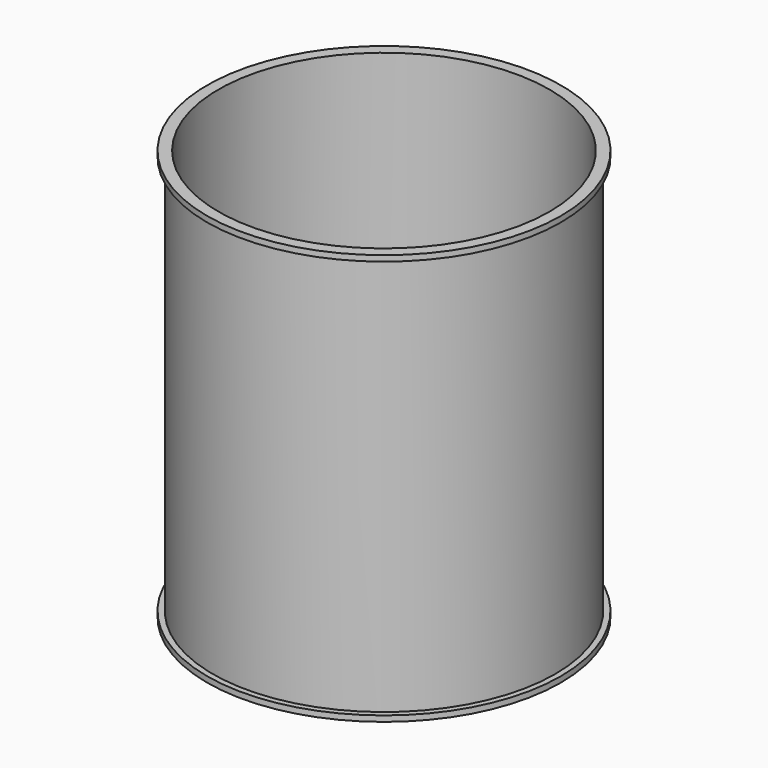
from build123d import *

# Parameters (mm, degrees)
F0_R     = 368.3
F1_DEPTH = 25.4
F0_R_2   = 381
F2_DEPTH = 914.4
F3_R     = 393.7
F3_R_2   = 381
F4_DEPTH = 12.7
F5_R     = 393.7
F5_R_2   = 381
F6_DEPTH = 12.7


with BuildPart() as f1:
    # F0 (on Top) → F1 (new body)
    with BuildSketch(Plane.XY):
        Circle(F0_R)
    extrude(amount=F1_DEPTH)

    # F0 (on Top) → F2 (join)
    with BuildSketch(Plane.XY):
        Circle(F0_R_2)
        Circle(F0_R, mode=Mode.SUBTRACT)
    extrude(amount=F2_DEPTH)

    # F3 (on face) → F4 (join)
    with BuildSketch(Plane(origin=(0, 0, 0), x_dir=(1, 0, 0), z_dir=(0, 0, -1))):
        Circle(F3_R)
        Circle(F3_R_2, mode=Mode.SUBTRACT)
    extrude(amount=-F4_DEPTH)

    # F5 (on face) → F6 (join)
    with BuildSketch(Plane.XY.offset(914.4)):
        Circle(F5_R)
        Circle(F5_R_2, mode=Mode.SUBTRACT)
    extrude(amount=-F6_DEPTH)


solid = f1.part
